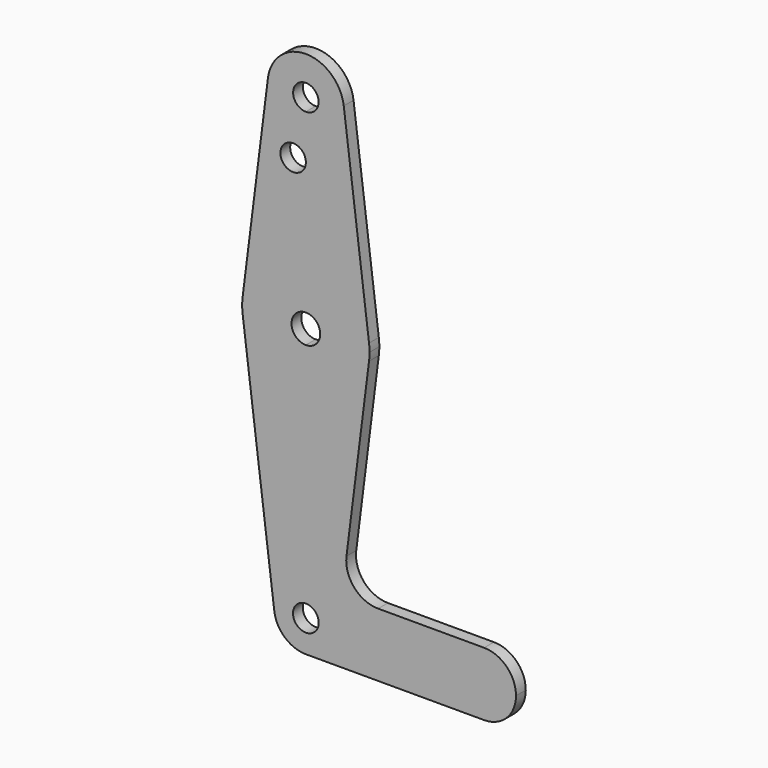
from build123d import *

# Parameters (mm, degrees)
F0_R     = 3.175
F1_DEPTH = 3.048


with BuildPart() as f1:
    # F0 (on Front) → F1 (new body)
    with BuildSketch(Plane.XZ):
        with BuildLine():
            ThreePointArc((-58.9681591883, 90.6098637193), (-56.6616162241, 83.1190434099), (-49.5178662241, 79.8942387193))
            ThreePointArc((-49.5178662241, 79.8942387193), (-42.7826741332, 82.6840466285), (-39.9928662241, 89.4192387193))
            ThreePointArc((-39.9928662241, 89.4192387193), (-40.0115613298, 90.0157219613), (-40.0675732598, 90.6098637193))
            ThreePointArc((-40.0675732598, 90.6098637193), (-49.5178662241, 98.9442387193), (-58.9681591883, 90.6098637193))
        make_face()
        with BuildLine():
            ThreePointArc((-46.3428662241, 89.4192387193), (-47.2728021938, 87.1741746891), (-49.5178662241, 86.2442387193))
            ThreePointArc((-49.5178662241, 86.2442387193), (-51.7629302543, 91.6643027496), (-46.3428662241, 89.4192387193))
        make_face(mode=Mode.SUBTRACT)
        with BuildLine():
            ThreePointArc((-39.9928662241, 89.4192387193), (-42.7826741332, 82.6840466285), (-49.5178662241, 79.8942387193))
            Line((-49.5178662241, 79.8942387193), (-49.5178662241, 75.1444387193))
            Line((-49.5178662241, 75.1444387193), (-49.5178662241, 54.4942387193))
            ThreePointArc((-49.5178662241, 54.4942387193), (-39.0175407083, 50.5254887193), (-33.7673779504, 40.6036137193))
            Line((-33.7673779504, 40.6036137193), (-40.0675732598, 90.6098637193))
            ThreePointArc((-40.0675732598, 90.6098637193), (-40.0115613298, 90.0157219613), (-39.9928662241, 89.4192387193))
        make_face()
        with BuildLine():
            Line((-49.5178662241, 75.1444387193), (-49.5178662241, 79.8942387193))
            ThreePointArc((-49.5178662241, 79.8942387193), (-56.6616162241, 83.1190434099), (-58.9681591883, 90.6098637193))
            Line((-58.9681591883, 90.6098637193), (-65.2683544977, 40.6036137193))
            ThreePointArc((-65.2683544977, 40.6036137193), (-60.0181917398, 50.5254887193), (-49.5178662241, 54.4942387193))
            Line((-49.5178662241, 54.4942387193), (-49.5178662241, 75.1444387193))
        make_face()
        with Locations((-52.6928662241, 75.1444387193)):
            Circle(F0_R, mode=Mode.SUBTRACT)
        with BuildLine():
            ThreePointArc((-33.7673779504, 40.6036137193), (-39.0175407083, 50.5254887193), (-49.5178662241, 54.4942387193))
            Line((-49.5178662241, 54.4942387193), (-49.5178662241, 42.1952313846))
            ThreePointArc((-49.5178662241, 42.1952313846), (-46.9892575609, 41.1478473825), (-45.9418735588, 38.6192387193))
            ThreePointArc((-45.9418735588, 38.6192387193), (-46.9892575609, 36.0906300562), (-49.5178662241, 35.043246054))
            Line((-49.5178662241, 35.043246054), (-49.5178662241, 22.7442387193))
            ThreePointArc((-49.5178662241, 22.7442387193), (-39.0175407083, 26.7129887193), (-33.7673779504, 36.6348637193))
            ThreePointArc((-33.7673779504, 36.6348637193), (-33.6740247337, 37.6250999827), (-33.6428662241, 38.6192387193))
            ThreePointArc((-33.6428662241, 38.6192387193), (-33.6740247337, 39.613377456), (-33.7673779504, 40.6036137193))
        make_face()
        with BuildLine():
            Line((-49.5178662241, 42.1952313846), (-49.5178662241, 54.4942387193))
            ThreePointArc((-49.5178662241, 54.4942387193), (-60.0181917398, 50.5254887193), (-65.2683544977, 40.6036137193))
            ThreePointArc((-65.2683544977, 40.6036137193), (-65.3928662241, 38.6192387193), (-65.2683544977, 36.6348637193))
            ThreePointArc((-65.2683544977, 36.6348637193), (-60.0181917398, 26.7129887193), (-49.5178662241, 22.7442387193))
            Line((-49.5178662241, 22.7442387193), (-49.5178662241, 35.043246054))
            ThreePointArc((-49.5178662241, 35.043246054), (-53.0938588894, 38.6192387193), (-49.5178662241, 42.1952313846))
        make_face()
        with BuildLine():
            ThreePointArc((-49.5178662241, 22.7442387193), (-60.0181917398, 26.7129887193), (-65.2683544977, 36.6348637193))
            Line((-65.2683544977, 36.6348637193), (-57.3931103609, -25.8729487807))
            ThreePointArc((-57.3931103609, -25.8729487807), (-55.4709912241, -19.6305985228), (-49.5178662241, -16.9432612807))
            Line((-49.5178662241, -16.9432612807), (-49.5178662241, 22.7442387193))
        make_face()
        with BuildLine():
            ThreePointArc((-33.7673779504, 36.6348637193), (-39.0175407083, 26.7129887193), (-49.5178662241, 22.7442387193))
            Line((-49.5178662241, 22.7442387193), (-49.5178662241, -16.9432612807))
            ThreePointArc((-49.5178662241, -16.9432612807), (-43.9052061484, -19.268101205), (-41.5803662241, -24.8807612807))
            Line((-41.5803662241, -24.8807612807), (-13.0053662241, -24.8807612807))
            ThreePointArc((-13.0053662241, -24.8807612807), (-10.6805262997, -19.268101205), (-5.0678662241, -16.9432612807))
            Line((-5.0678662241, -16.9432612807), (-31.5029077506, -16.9432612807))
            ThreePointArc((-31.5029077506, -16.9432612807), (-37.4655577506, -14.251624299), (-39.390752278, -7.9992862807))
            Line((-39.390752278, -7.9992862807), (-33.7673779504, 36.6348637193))
        make_face()
        with BuildLine():
            ThreePointArc((-49.5178662241, -16.9432612807), (-55.4709912241, -19.6305985228), (-57.3931103609, -25.8729487807))
            ThreePointArc((-57.3931103609, -25.8729487807), (-54.7680289819, -30.8338862807), (-49.5178662241, -32.8182612807))
            ThreePointArc((-49.5178662241, -32.8182612807), (-43.9052061484, -30.4934213563), (-41.5803662241, -24.8807612807))
            Line((-41.5803662241, -24.8807612807), (-46.3166417574, -24.8807612807))
            ThreePointArc((-46.3166417574, -24.8807612807), (-51.7814737525, -27.1443688092), (-49.5178662241, -21.679536814))
            Line((-49.5178662241, -21.679536814), (-49.5178662241, -16.9432612807))
        make_face()
        with BuildLine():
            ThreePointArc((-41.5803662241, -24.8807612807), (-43.9052061484, -30.4934213563), (-49.5178662241, -32.8182612807))
            Line((-49.5178662241, -32.8182612807), (-5.0678662241, -32.8182612807))
            ThreePointArc((-5.0678662241, -32.8182612807), (-10.6805262997, -30.4934213563), (-13.0053662241, -24.8807612807))
            Line((-13.0053662241, -24.8807612807), (-41.5803662241, -24.8807612807))
        make_face()
        with BuildLine():
            ThreePointArc((-13.0053662241, -24.8807612807), (-10.6805262997, -30.4934213563), (-5.0678662241, -32.8182612807))
            ThreePointArc((-5.0678662241, -32.8182612807), (0.5447938516, -30.4934213563), (2.8696337759, -24.8807612807))
            ThreePointArc((2.8696337759, -24.8807612807), (0.5447938516, -19.268101205), (-5.0678662241, -16.9432612807))
            ThreePointArc((-5.0678662241, -16.9432612807), (-10.6805262997, -19.268101205), (-13.0053662241, -24.8807612807))
        make_face()
        with BuildLine():
            ThreePointArc((-41.5803662241, -24.8807612807), (-43.9052061484, -19.268101205), (-49.5178662241, -16.9432612807))
            Line((-49.5178662241, -16.9432612807), (-49.5178662241, -21.679536814))
            ThreePointArc((-49.5178662241, -21.679536814), (-47.2542586956, -22.6171537522), (-46.3166417574, -24.8807612807))
            Line((-46.3166417574, -24.8807612807), (-41.5803662241, -24.8807612807))
        make_face()
    extrude(amount=F1_DEPTH)


solid = f1.part
